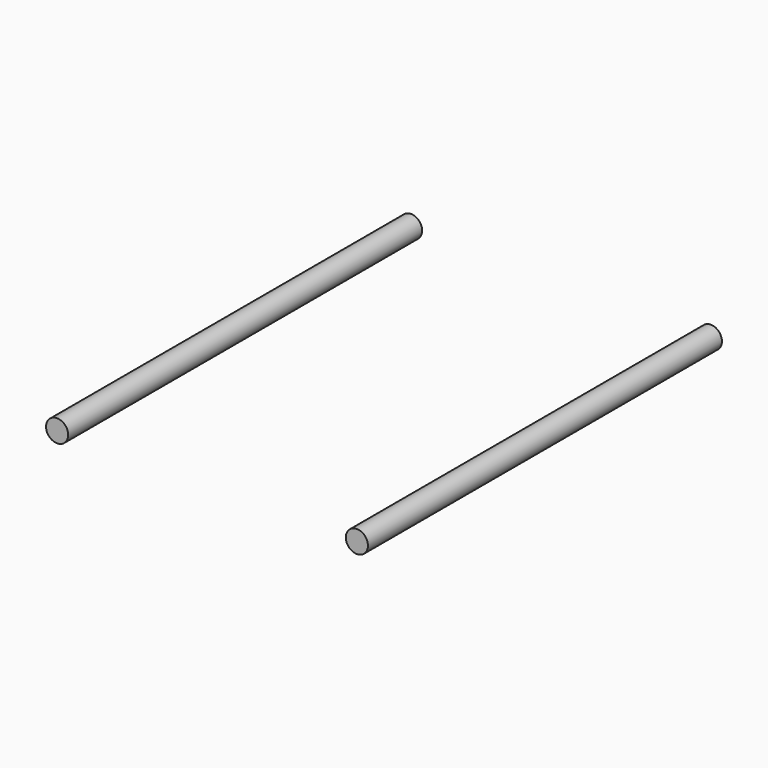
from build123d import *

# Parameters (mm, degrees)
F0_R      = 1.5875
F1_DEPTH  = 38.1
F1_FACE_R = 1.5875
F2_DEPTH  = 25.4
F3_DEPTH  = 25.4


with BuildPart() as f1:
    # F0 (on Front) → F1 (new body)
    with BuildSketch(Plane.XZ):
        with Locations((-24.170939, 0)):
            Circle(F0_R)
        with Locations((18.8489, 0)):
            Circle(F0_R)
    extrude(amount=F1_DEPTH)

    # F1_face (on face) → F2 (join)
    with BuildSketch(Plane(origin=(18.8489, -38.1, 0), x_dir=(1, 0, 0), z_dir=(0, -1, 0))):
        Circle(F1_FACE_R)
    extrude(amount=F2_DEPTH)

    # F1_face (on face) → F3 (join)
    with BuildSketch(Plane(origin=(18.8489, -38.1, 0), x_dir=(1, 0, 0), z_dir=(0, -1, 0))):
        with Locations((-43.019839, 0)):
            Circle(F1_FACE_R)
    extrude(amount=F3_DEPTH)


solid = f1.part
